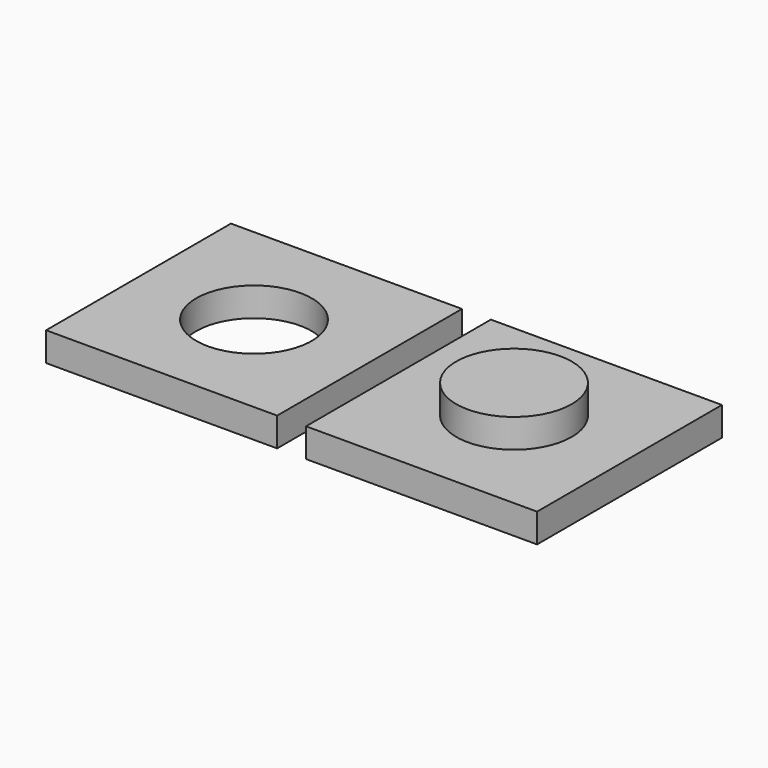
from build123d import *

# Parameters (mm, degrees)
F0_W     = 20
F0_H     = 20
F0_R     = 5
F1_DEPTH = 2.5
F2_DEPTH = 2.5
F3_DEPTH = 2.5
F4_ANGLE = 180


with BuildPart() as f1:
    # F0 (on Top) → F1 (new body)
    with BuildSketch(Plane.XY):
        Rectangle(F0_W, F0_H)
        Circle(F0_R, mode=Mode.SUBTRACT)
    extrude(amount=-F1_DEPTH)

    # F0 (on Top) → F2 (join, symmetric)
    with BuildSketch(Plane.XY):
        Circle(F0_R)
    extrude(amount=F2_DEPTH, both=True)


with BuildPart() as f3:
    # F0 (on Top) → F3 (new body)
    with BuildSketch(Plane.XY):
        Rectangle(F0_W, F0_H)
        Circle(F0_R, mode=Mode.SUBTRACT)
    extrude(amount=F3_DEPTH)


with BuildPart() as f3_1:
    # F4: moved
    add(f3.part.rotate(Axis((-10, 0, 0), (0, 1, 0)), F4_ANGLE))


with BuildPart() as f1_1:
    # F5: moved
    add(f1.part.moved(Location((2.5, 0, 0))))


solid = Compound([f3_1.part, f1_1.part])
